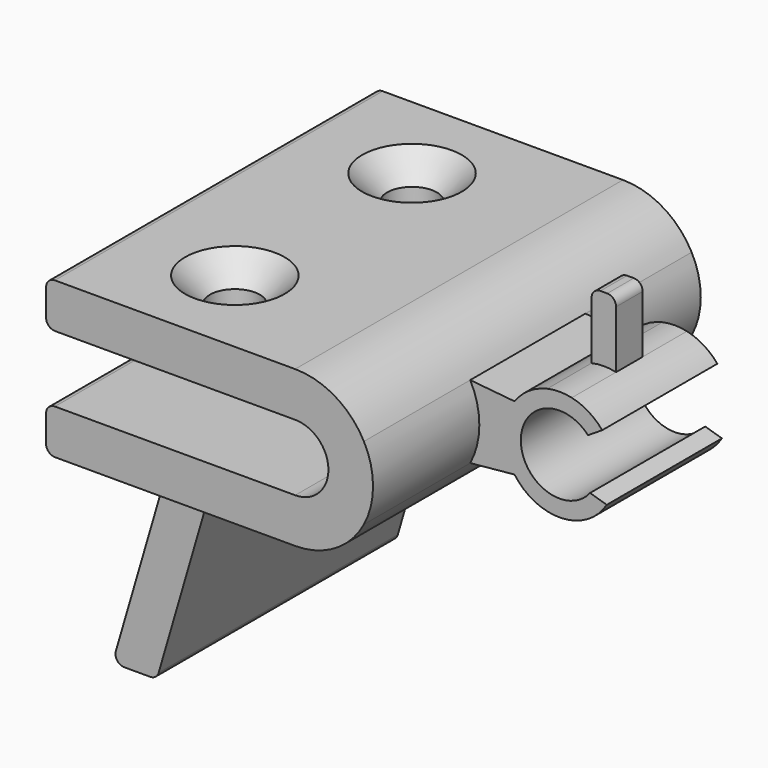
from build123d import *

# Parameters (mm, degrees)
F1_DEPTH       = 18.5
F2_DEPTH       = 6.5
F3_DEPTH       = 1.5
F4_DEPTH       = 13.5
F6_D           = 4.5
F6_DEPTH       = 7
F6_CSINK_D     = 9
F6_CSINK_ANGLE = 90


with BuildPart() as f1:
    # F0 (on Front) → F1 (new body, symmetric)
    with BuildSketch(Plane.XZ):
        with BuildLine():
            Line((-8.603998, 19.092317), (2.646002, 19.092317))
            ThreePointArc((2.646002, 19.092317), (6.266849, 20.096509), (8.853265, 22.822198))
            ThreePointArc((8.853265, 22.822198), (9.676002, 26.122317), (8.853265, 29.422437))
            ThreePointArc((8.853265, 29.422437), (6.266849, 32.148126), (2.646002, 33.152317))
            Line((2.646002, 33.152317), (-19.053998, 33.152317))
            ThreePointArc((-19.053998, 33.152317), (-19.619683, 32.918003), (-19.853998, 32.352317))
            Line((-19.853998, 32.352317), (-19.853998, 29.922317))
            ThreePointArc((-19.853998, 29.922317), (-19.619683, 29.356632), (-19.053998, 29.122317))
            Line((-19.053998, 29.122317), (2.646002, 29.122317))
            ThreePointArc((2.646002, 29.122317), (5.646002, 26.122317), (2.646002, 23.122317))
            Line((2.646002, 23.122317), (-19.053998, 23.122317))
            ThreePointArc((-19.053998, 23.122317), (-19.619683, 22.888003), (-19.853998, 22.322317))
            Line((-19.853998, 22.322317), (-19.853998, 19.892317))
            ThreePointArc((-19.853998, 19.892317), (-19.619683, 19.326632), (-19.053998, 19.092317))
            Line((-19.053998, 19.092317), (-12.603998, 19.092317))
            Line((-12.603998, 19.092317), (-8.603998, 19.092317))
        make_face()
    extrude(amount=F1_DEPTH, both=True)

    # F0 (on Front) → F2 (join, symmetric)
    with BuildSketch(Plane.XZ):
        with BuildLine():
            ThreePointArc((8.853265, 29.422437), (9.676002, 26.122317), (8.853265, 22.822198))
            Line((8.853265, 22.822198), (12.856312, 23.211387))
            ThreePointArc((12.856312, 23.211387), (11.92159, 26.122317), (12.856312, 29.033247))
            Line((12.856312, 29.033247), (8.853265, 29.422437))
        make_face()
        with BuildLine():
            ThreePointArc((12.856312, 29.033247), (11.92159, 26.122317), (12.856312, 23.211387))
            ThreePointArc((12.856312, 23.211387), (17.102599, 21.125595), (21.186836, 23.513164))
            Line((21.186836, 23.513164), (19.677439, 23.964703))
            ThreePointArc((19.677439, 23.964703), (13.424495, 25.979745), (19.492658, 28.497104))
            Line((19.492658, 28.497104), (20.773135, 29.310671))
            ThreePointArc((20.773135, 29.310671), (19.539969, 30.381905), (18.027346, 30.998515))
            ThreePointArc((18.027346, 30.998515), (16.92159, 31.122317), (15.815834, 30.998515))
            ThreePointArc((15.815834, 30.998515), (14.155642, 30.287594), (12.856312, 29.033247))
        make_face()
    extrude(amount=F2_DEPTH, both=True)

    # F0 (on Front) → F3 (join, symmetric)
    with BuildSketch(Plane.XZ):
        with BuildLine():
            Line((15.815834, 36.198515), (15.815834, 30.998515))
            ThreePointArc((15.815834, 30.998515), (16.92159, 31.122317), (18.027346, 30.998515))
            Line((18.027346, 30.998515), (18.027346, 36.198515))
            ThreePointArc((18.027346, 36.198515), (17.793031, 36.7642), (17.227346, 36.998515))
            Line((17.227346, 36.998515), (16.615834, 36.998515))
            ThreePointArc((16.615834, 36.998515), (16.050149, 36.7642), (15.815834, 36.198515))
        make_face()
    extrude(amount=F3_DEPTH, both=True)

    # F0 (on Front) → F4 (join, symmetric)
    with BuildSketch(Plane.XZ):
        with BuildLine():
            Line((-13.68744, 1.668259), (-8.603998, 19.092317))
            Line((-8.603998, 19.092317), (-12.603998, 19.092317))
            Line((-12.603998, 19.092317), (-17.556703, 2.116375))
            ThreePointArc((-17.556703, 2.116375), (-17.428738, 1.412341), (-16.78872, 1.092317))
            Line((-16.78872, 1.092317), (-14.455423, 1.092317))
            ThreePointArc((-14.455423, 1.092317), (-13.975447, 1.252299), (-13.68744, 1.668259))
        make_face()
    extrude(amount=F4_DEPTH, both=True)

    # F6
    with Locations(Plane.XY.offset(33.152317)):
        with Locations((-9.603998, 10), (-9.603998, -10)):
            CounterSinkHole(F6_D / 2, F6_CSINK_D / 2, depth=F6_DEPTH, counter_sink_angle=F6_CSINK_ANGLE)


solid = f1.part
